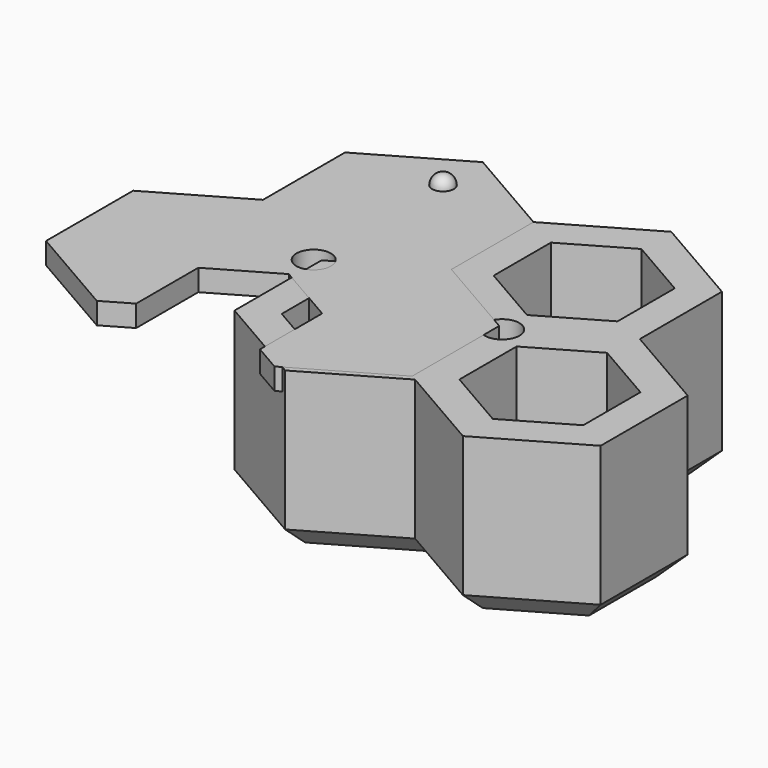
from build123d import *

# Parameters (mm, degrees)
F0_R      = 1.6
F1_DEPTH  = 3
F2_DEPTH  = 12
F3_R      = 3.5
F4_DEPTH  = 2
F5_SIZE   = 2
F6_R      = 1.96
F6_R_2    = 1.6
F7_DEPTH  = 2
F8_R      = 1.6
F9_DEPTH  = 2
F11_ANGLE = 180
F12_ANGLE = 180


with BuildPart() as f1:
    # F0 (on Top) → F1 (new body)
    with BuildSketch(Plane.XY):
        Polygon((8.75, 5.0518148554), (8.75, 14.578094297), (0, 19.6299091524), (-8.75, 14.578094297), (-8.75, 5.0518148554), (-17, 0.2886751346), (-17, -9.8149545762), (-8.25, -14.8667694316), (0, -10.1036297108), (8.25, -14.8667694316), (17, -9.8149545762), (17, 0.2886751346), align=None)
        Polygon((-2.5, -8.0829037687), (-8.25, -11.4026678165), (-14, -8.0829037687), (-14, -1.443375673), (-8.25, 1.8763883749), (-2.5, -1.443375673), align=None, mode=Mode.SUBTRACT)
        Polygon((8.25, 1.8763883749), (14, -1.443375673), (14, -8.0829037687), (8.25, -11.4026678165), (2.5, -8.0829037687), (2.5, -1.443375673), align=None, mode=Mode.SUBTRACT)
        Circle(F0_R, mode=Mode.SUBTRACT)
        Polygon((-5.75, 12.8460434895), (0, 16.1658075373), (5.75, 12.8460434895), (5.75, 6.2065153938), (0, 2.8867513459), (-5.75, 6.2065153938), align=None, mode=Mode.SUBTRACT)
        Polygon((5.75, 12.8460434895), (0, 16.1658075373), (-5.75, 12.8460434895), (-5.75, 6.2065153938), (0, 2.8867513459), (5.75, 6.2065153938), align=None)
        Polygon((-14, -8.0829037687), (-8.25, -11.4026678165), (-2.5, -8.0829037687), (-2.5, -1.443375673), (-8.25, 1.8763883749), (-14, -1.443375673), align=None)
        Polygon((14, -8.0829037687), (14, -1.443375673), (8.25, 1.8763883749), (2.5, -1.443375673), (2.5, -8.0829037687), (8.25, -11.4026678165), align=None)
    extrude(amount=-F1_DEPTH)

    # F0 (on Top) → F2 (join)
    with BuildSketch(Plane.XY):
        Polygon((8.75, 5.0518148554), (8.75, 14.578094297), (0, 19.6299091524), (-8.75, 14.578094297), (-8.75, 5.0518148554), (-17, 0.2886751346), (-17, -9.8149545762), (-8.25, -14.8667694316), (0, -10.1036297108), (8.25, -14.8667694316), (17, -9.8149545762), (17, 0.2886751346), align=None)
        Polygon((-2.5, -8.0829037687), (-8.25, -11.4026678165), (-14, -8.0829037687), (-14, -1.443375673), (-8.25, 1.8763883749), (-2.5, -1.443375673), align=None, mode=Mode.SUBTRACT)
        Polygon((8.25, 1.8763883749), (14, -1.443375673), (14, -8.0829037687), (8.25, -11.4026678165), (2.5, -8.0829037687), (2.5, -1.443375673), align=None, mode=Mode.SUBTRACT)
        Circle(F0_R, mode=Mode.SUBTRACT)
        Polygon((-5.75, 12.8460434895), (0, 16.1658075373), (5.75, 12.8460434895), (5.75, 6.2065153938), (0, 2.8867513459), (-5.75, 6.2065153938), align=None, mode=Mode.SUBTRACT)
    extrude(amount=F2_DEPTH)

    # F3 (on face) → F4 (cut)
    with BuildSketch(Plane(origin=(0, 0, -3), x_dir=(1, 0, 0), z_dir=(0, 0, -1))):
        Circle(F3_R)
    extrude(amount=-F4_DEPTH, mode=Mode.SUBTRACT)

    # F5
    f5_edges = [f1.edges().sort_by_distance(p)[0] for p in [
        (-12.625, -12.340862, -3),
        (-4.125, -12.4852, -3),
        (4.125, -12.4852, -3),
        (12.625, -12.340862, -3),
        (17, -4.76314, -3),
        (12.875, 2.670245, -3),
        (8.75, 9.814955, -3),
        (4.375, 17.104002, -3),
        (-4.375, 17.104002, -3),
        (-8.75, 9.814955, -3),
        (-12.875, 2.670245, -3),
        (-17, -4.76314, -3),
    ]]
    chamfer(f5_edges, length=F5_SIZE)

    # F6 (on face) → F7 (join, through all)
    with BuildSketch(Plane(origin=(0, 0, -1), x_dir=(1, 0, 0), z_dir=(0, 0, -1))):
        Circle(F6_R)
        Circle(F6_R_2, mode=Mode.SUBTRACT)
    extrude(amount=F7_DEPTH)


with BuildPart() as f9:
    # F8 (on face) → F9 (new body)
    with BuildSketch(Plane.XY.offset(12)):
        Polygon((-8.25, -11.4026678165), (-5.75, -9.9592921435), (-5.75, -6.2065153938), (-2.5, -4.3301270189), (-2.5, -1.443375673), (-8.25, 1.8763883749), (-14, -1.443375673), (-14, -8.0829037687), align=None)
        Polygon((5.75, -6.2065153938), (5.75, -9.9592921435), (8.25, -11.4026678165), (14, -8.0829037687), (14, -1.443375673), (8.25, 1.8763883749), (2.5, -1.443375673), (2.5, -4.3301270189), align=None)
        Polygon((17, -9.8149545762), (17, 0.2886751346), (8.75, 5.0518148554), (8.75, 14.578094297), (0, 19.6299091524), (-8.75, 14.578094297), (-8.75, 5.0518148554), (-17, 0.2886751346), (-17, -9.8149545762), (-8.25, -14.8667694316), (-5.75, -13.4233937587), (-5.75, -9.9592921435), (-8.25, -11.4026678165), (-14, -8.0829037687), (-14, -1.443375673), (-8.25, 1.8763883749), (-2.5, -1.443375673), (-2.5, -4.3301270189), (0, -2.8867513459), (2.5, -4.3301270189), (2.5, -1.443375673), (8.25, 1.8763883749), (14, -1.443375673), (14, -8.0829037687), (8.25, -11.4026678165), (5.75, -9.9592921435), (5.75, -13.4233937587), (8.25, -14.8667694316), align=None)
        Circle(F8_R, mode=Mode.SUBTRACT)
        Polygon((5.75, 6.2065153938), (0, 2.8867513459), (-5.75, 6.2065153938), (-5.75, 12.8460434895), (0, 16.1658075373), (5.75, 12.8460434895), align=None, mode=Mode.SUBTRACT)
        Polygon((-5.75, 6.2065153938), (0, 2.8867513459), (5.75, 6.2065153938), (5.75, 12.8460434895), (0, 16.1658075373), (-5.75, 12.8460434895), align=None)
    extrude(amount=F9_DEPTH)

    # F10 (on face) → F11 (revolve)
    with BuildSketch(Plane.XY.offset(12)):
        with BuildLine():
            ThreePointArc((-1, 15.0111069989), (0, 14.0111069989), (1, 15.0111069989))
            Line((1, 15.0111069989), (-1, 15.0111069989))
        make_face()
    revolve(axis=Axis((0, 15.0111069989, 12), (1, 0, 0)), revolution_arc=F11_ANGLE)


with BuildPart() as f9_1:
    # F12: moved
    add(f9.part.rotate(Axis((-8.75, 9.8149545762, 12), (0, 1, 0)), F12_ANGLE))


solid = Compound([f1.part, f9_1.part])
